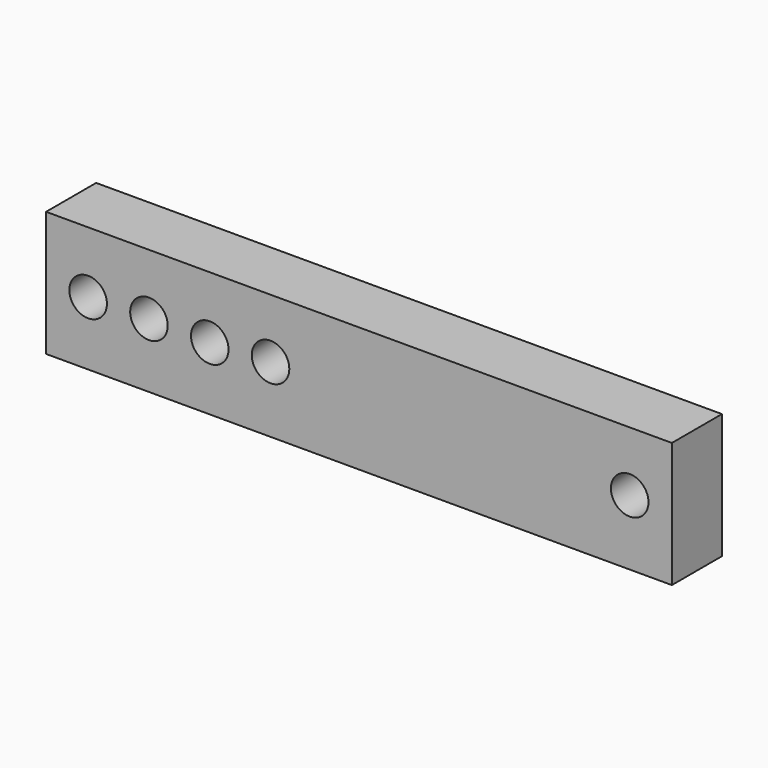
from build123d import *

# Parameters (mm, degrees)
F0_W     = 63.5
F0_H     = 12.7
F0_R     = 1.905
F1_DEPTH = 6.35


with BuildPart() as f1:
    # F0 (on Front) → F1 (new body)
    with BuildSketch(Plane.XZ):
        with Locations((-3.023505, 10.073337)):
            Rectangle(F0_W, F0_H)
        with Locations((-30.506769, 10.197385)):
            Circle(F0_R, mode=Mode.SUBTRACT)
        with Locations((-24.334844, 10.255609)):
            Circle(F0_R, mode=Mode.SUBTRACT)
        with Locations((-18.163695, 10.141711)):
            Circle(F0_R, mode=Mode.SUBTRACT)
        with Locations((-11.997517, 10.414294)):
            Circle(F0_R, mode=Mode.SUBTRACT)
        with Locations((24.448805, 10.356274)):
            Circle(F0_R, mode=Mode.SUBTRACT)
    extrude(amount=-F1_DEPTH)


solid = f1.part
